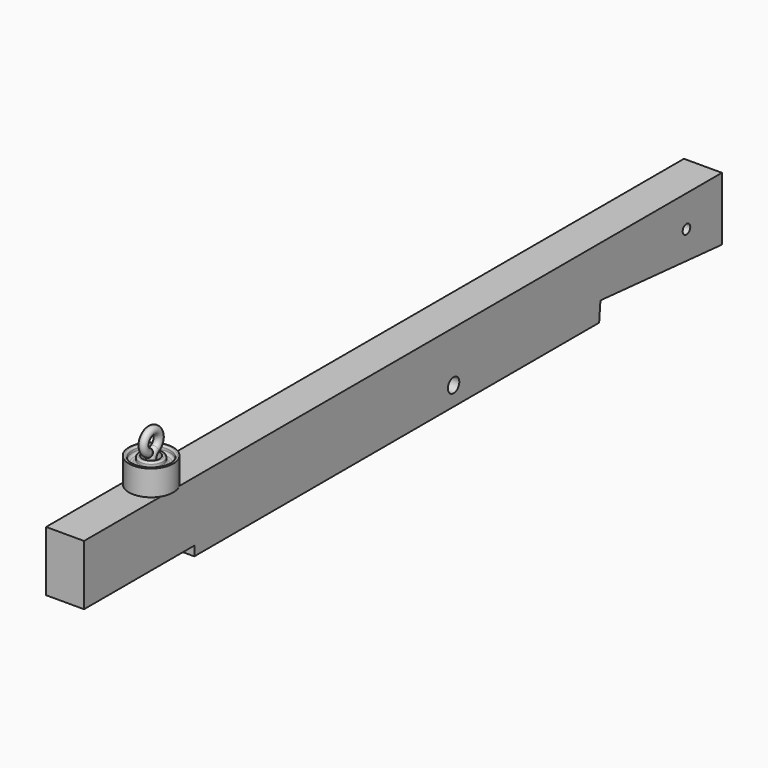
from build123d import *

# Parameters (mm, degrees)
F0_R     = 14.2875
F0_R_2   = 9.525
F1_DEPTH = 38.1
F2_R     = 7.9375
F3_DEPTH = 139.701
F6_R     = 7.9375
F9_R     = 4.7625
F10_R    = 3.175


with BuildPart() as f1:
    # F0 (on Right) → F1 (new body, symmetric)
    with BuildSketch(Plane.YZ):
        Polygon((-523.5371589661, -69.85), (492.125, -69.85), (495.3, -31.75), (800.1, -57.15), (800.1, 69.85), (-800.1, 69.85), (-800.1, -50.8), (-523.5371589661, -50.8), align=None)
        with Locations((127, -31.75)):
            Circle(F0_R, mode=Mode.SUBTRACT)
        with Locations((711.2, 6.35)):
            Circle(F0_R_2, mode=Mode.SUBTRACT)
    extrude(amount=F1_DEPTH, both=True)

    # F2 (on face) → F3 (cut, through all)
    with BuildSketch(Plane.XY.offset(69.85)):
        with Locations((0, -584.2)):
            Circle(F2_R)
    extrude(amount=-F3_DEPTH, mode=Mode.SUBTRACT)


with BuildPart() as f7:
    # F7: sweep along a path in F4
    with BuildLine(Plane.YZ) as f7_path:
        Line((-584.2, -69.85), (-584.2, 113.0544321158))
        ThreePointArc((-584.2, 113.0544321158), (-581.6477839421, 122.5794321158), (-574.675, 129.5522160579))
        ThreePointArc((-574.675, 129.5522160579), (-584.2, 165.1), (-593.725, 129.5522160579))
        Line((-593.725, 129.5522160579), (-590.3080379799, 127.5794321158))
    # F6 (on line) → F7 (sweep)
    with BuildSketch(Plane.XY.offset(-69.85)):
        with Locations((0, -584.2)):
            Circle(F6_R)
    sweep(path=f7_path.line)


with BuildPart() as f8:
    # F4 (on Right) → F8 (revolve)
    with BuildSketch(Plane.YZ):
        Polygon((-566.7375, 120.65), (-566.7375, 69.85), (-560.3875, 69.85), (-560.3875, 82.55), (-546.1, 82.55), (-546.1, 69.85), (-539.75, 69.85), (-539.75, 120.65), (-546.1, 120.65), (-546.1, 107.95), (-560.3875, 107.95), (-560.3875, 120.65), align=None)
    revolve(axis=Axis((0, -584.2, 21.6022160579), (0, 0, 1)))

    # F9
    f9_edges = [f8.edges().sort_by_distance(p)[0] for p in [
        (0, -622.3, 82.55),
        (0, -608.0125, 82.55),
        (0, -622.3, 107.95),
        (0, -608.0125, 107.95),
    ]]
    fillet(f9_edges, radius=F9_R)

    # F10
    f10_edges = [f8.edges().sort_by_distance(p)[0] for p in [
        (0, -622.3, 120.65),
        (0, -622.3, 69.85),
        (0, -608.0125, 69.85),
        (0, -608.0125, 120.65),
    ]]
    fillet(f10_edges, radius=F10_R)


solid = Compound([f1.part, f7.part, f8.part])
